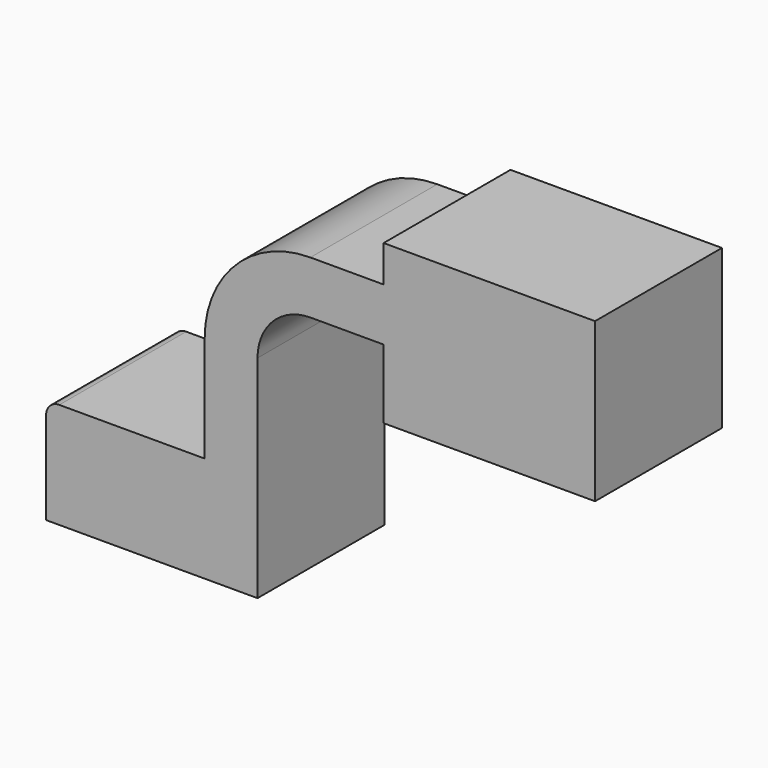
from build123d import *

# Parameters (mm, degrees)
F1_DEPTH = 38.1


with BuildPart() as f1:
    # F0 (on Front) → F1 (new body, symmetric)
    with BuildSketch(Plane.XZ):
        with BuildLine():
            Line((-50.8, -25.4), (50.8, -25.4))
            Line((50.8, -25.4), (50.8, 25.4))
            Line((50.8, 25.4), (25.4, 25.4))
            Line((25.4, 25.4), (-44.45, 25.4))
            ThreePointArc((-44.45, 25.4), (-48.940128, 23.540128), (-50.8, 19.05))
            Line((-50.8, 19.05), (-50.8, -25.4))
        make_face()
        with BuildLine():
            Line((25.4, 25.4), (50.8, 25.4))
            Line((50.8, 25.4), (50.8, 76.2))
            ThreePointArc((50.8, 76.2), (58.239488, 94.160512), (76.2, 101.6))
            Line((76.2, 101.6), (111.395538, 101.6))
            Line((111.395538, 101.6), (111.395538, 127))
            Line((111.395538, 127), (76.2, 127))
            ThreePointArc((76.2, 127), (40.278976, 112.121024), (25.4, 76.2))
            Line((25.4, 76.2), (25.4, 25.4))
        make_face()
        Polygon((212.995538, 144.540807), (111.395538, 144.540807), (111.395538, 127), (111.395538, 101.6), (111.395538, 95.25), (111.395538, 68.340807), (212.995538, 68.340807), align=None)
    extrude(amount=F1_DEPTH, both=True)


solid = f1.part
